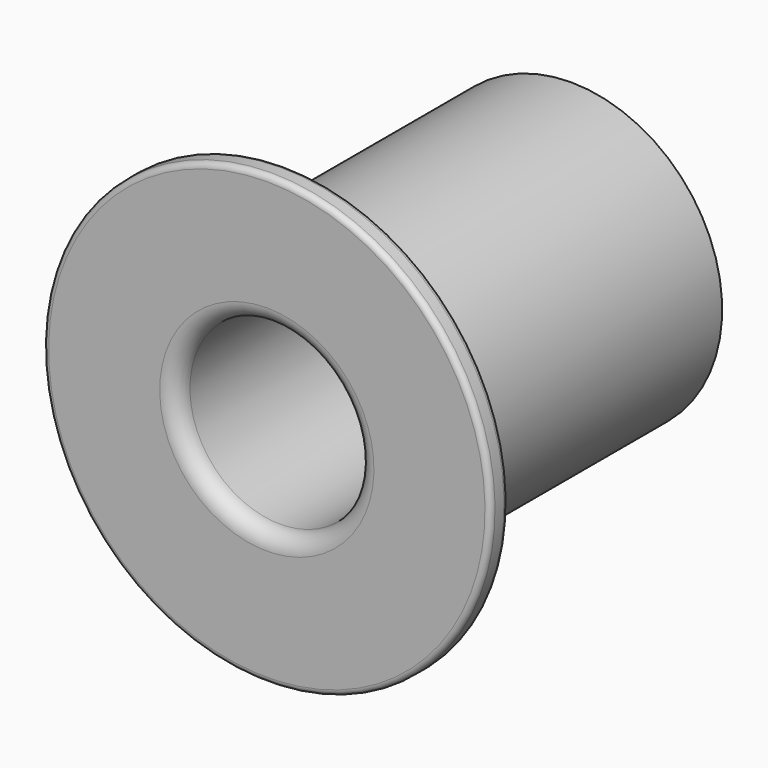
from build123d import *

# Parameters (mm, degrees)
F2_DEPTH = 4.001
F3_R     = 3
F4_R     = 1


with BuildPart() as f1:
    # F0 (on Right) → F1 (revolve)
    with BuildSketch(Plane.YZ):
        with BuildLine():
            Line((0, 39), (0, 0))
            Line((0, 0), (4, 0))
            Line((4, 0), (4, 16.15))
            Line((4, 16.15), (72, 16.15))
            Line((72, 16.15), (72, 23.1103692204))
            Line((72, 23.1103692204), (68, 23.1103692204))
            Line((68, 23.1103692204), (68, 27))
            Line((68, 27), (4, 27))
            Line((4, 27), (4, 39))
            ThreePointArc((4, 39), (3.7071067812, 39.7071067812), (3, 40))
            Line((3, 40), (1, 40))
            ThreePointArc((1, 40), (0.2928932188, 39.7071067812), (0, 39))
        make_face()
    revolve(axis=Axis((0, 36, 0), (0, 1, 0)))

    # F2 (cut, through all): a face of the model
    f2_faces = [f1.faces().sort_by_distance(p)[0] for p in [
        (0, 4, 0),
    ]]
    extrude(f2_faces, amount=-F2_DEPTH, mode=Mode.SUBTRACT)

    # F3
    f3_edges = [f1.edges().sort_by_distance(p)[0] for p in [
        (0, 0, -16.15),
    ]]
    fillet(f3_edges, radius=F3_R)

    # F4
    f4_edges = [f1.edges().sort_by_distance(p)[0] for p in [
        (0, 72, -23.110369),
    ]]
    fillet(f4_edges, radius=F4_R)


solid = f1.part
